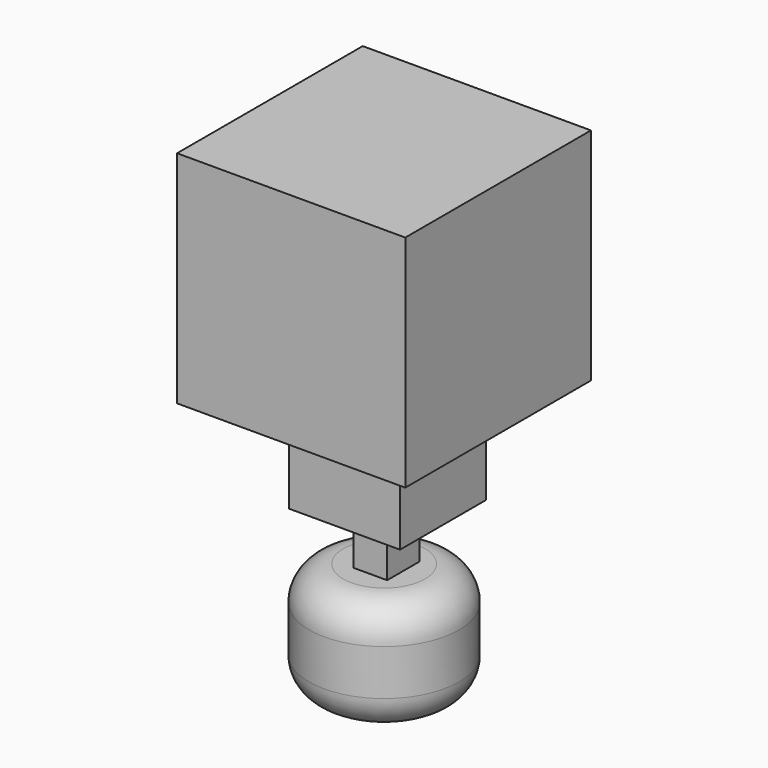
from build123d import *

# Parameters (mm, degrees)
F0_W     = 34.221142
F0_H     = 33.016175
F1_DEPTH = 34.798
F2_W     = 16.628581
F2_H     = 16.146597
F3_DEPTH = 32.004
F4_W     = 5.060869
F4_H     = 6.024849
F5_DEPTH = 39.878
F6_R     = 11.215709
F7_DEPTH = 17.018
F8_R     = 5.08


with BuildPart() as f1:
    # F0 (on Front) → F1 (new body)
    with BuildSketch(Plane.XZ):
        with Locations((5.521229, -0.481988)):
            Rectangle(F0_W, F0_H)
    extrude(amount=F1_DEPTH)

    # F2 (on Top) → F3 (join)
    with BuildSketch(Plane.XY):
        with Locations((5.641728, -16.869578)):
            Rectangle(F2_W, F2_H)
    extrude(amount=-F3_DEPTH)

    # F4 (on Top) → F5 (join)
    with BuildSketch(Plane.XY):
        with Locations((5.641728, -17.110572)):
            Rectangle(F4_W, F4_H)
    extrude(amount=-F5_DEPTH)

    # F6 (on face) → F7 (join)
    with BuildSketch(Plane(origin=(0, 0, -39.878), x_dir=(1, 0, 0), z_dir=(0, 0, -1))):
        with Locations((5.309023, 17.110573)):
            Circle(F6_R)
    extrude(amount=F7_DEPTH)

    # F8
    f8_edges = [f1.edges().sort_by_distance(p)[0] for p in [
        (-5.906686, -17.110573, -56.896),
        (-5.906686, -17.110573, -39.878),
    ]]
    fillet(f8_edges, radius=F8_R)


solid = f1.part
